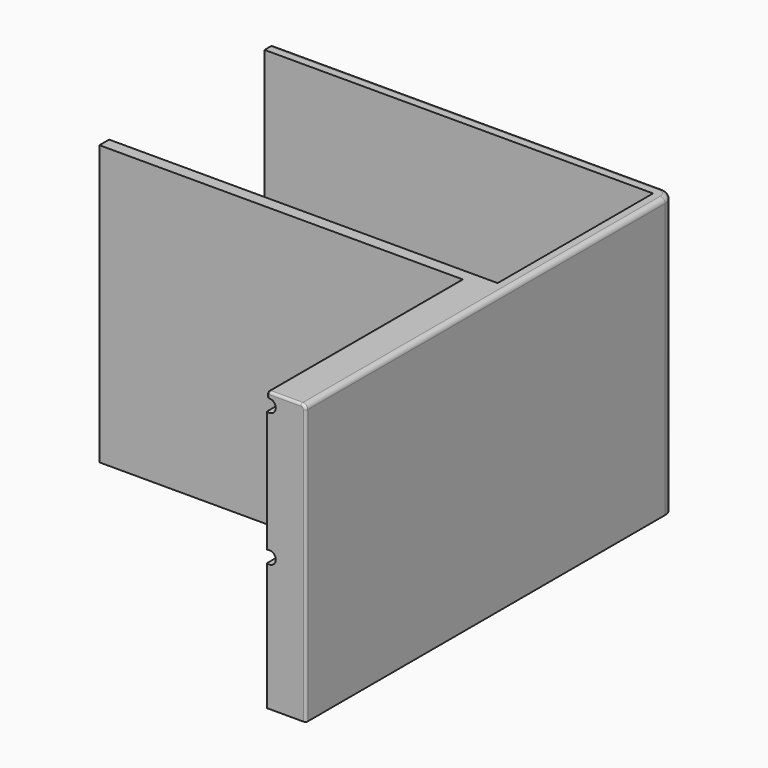
from build123d import *

# Parameters (mm, degrees)
SKETCH_W        = 330
SKETCH_H        = 90
PAD_DEPTH       = 260
SKETCH001_W     = 320
SKETCH001_H     = 80
POCKET_DEPTH    = 250
SKETCH002_W     = 16
SKETCH002_H     = 260
PAD001_DEPTH    = 100
SKETCH003_R     = 2.625
POCKET001_DEPTH = 105
FILLET_R        = 5
FILLET001_R     = 5
FILLET002_R     = 5
FILLET003_R     = 2
FILLET004_R     = 1
FILLET005_R     = 1
FILLET006_R     = 1
FILLET007_R     = 1
SKETCH004_W     = 298
SKETCH004_H     = 5
PAD002_DEPTH    = 100
FILLET008_R     = 1
SKETCH005_W     = 390
SKETCH005_H     = 230
POCKET002_DEPTH = 145
SKETCH006_W     = 165
SKETCH006_H     = 230
POCKET003_DEPTH = 300


with BuildPart() as part:
    # Sketch → Pad (new body)
    with BuildSketch(Plane.XY):
        with Locations((165, 45)):
            Rectangle(SKETCH_W, SKETCH_H)
    extrude(amount=PAD_DEPTH)

    # Sketch001 (on Face6 of Pad) → Pocket (cut)
    with BuildSketch(Plane.XY.offset(260)):
        with Locations((165, 45)):
            Rectangle(SKETCH001_W, SKETCH001_H)
    extrude(amount=-POCKET_DEPTH, mode=Mode.SUBTRACT)

    # Sketch002 (on Face1 of Pocket) → Pad001 (join)
    with BuildSketch(Plane.XZ):
        with Locations((8, 130)):
            Rectangle(SKETCH002_W, SKETCH002_H)
        with Locations((322, 130)):
            Rectangle(SKETCH002_W, SKETCH002_H)
    extrude(amount=PAD001_DEPTH)

    # Sketch003 (on Face18 of Pad001) → Pocket001 (cut)
    with BuildSketch(Plane.XZ.offset(100)):
        with Locations((15, 40)):
            Circle(SKETCH003_R)
        with Locations((315, 40)):
            Circle(SKETCH003_R)
        with Locations((15, 120)):
            Circle(SKETCH003_R)
        with Locations((315, 120)):
            Circle(SKETCH003_R)
        with Locations((15, 200)):
            Circle(SKETCH003_R)
        with Locations((315, 200)):
            Circle(SKETCH003_R)
        with Locations((15, 255)):
            Circle(SKETCH003_R)
        with Locations((315, 255)):
            Circle(SKETCH003_R)
    extrude(amount=-POCKET001_DEPTH, mode=Mode.SUBTRACT)

    # Fillet
    fillet_edges = [part.edges().sort_by_distance(p)[0] for p in [
        (0, 45, 0),
    ]]
    fillet(fillet_edges, radius=FILLET_R)

    # Fillet001
    fillet001_edges = [part.edges().sort_by_distance(p)[0] for p in [
        (330, 45, 0),
    ]]
    fillet(fillet001_edges, radius=FILLET001_R)

    # Fillet002
    fillet002_edges = [part.edges().sort_by_distance(p)[0] for p in [
        (165, 90, 0),
    ]]
    fillet(fillet002_edges, radius=FILLET002_R)

    # Fillet003
    fillet003_edges = [part.edges().sort_by_distance(p)[0] for p in [
        (0, -50, 260),
    ]]
    fillet(fillet003_edges, radius=FILLET003_R)

    # Fillet004
    fillet004_edges = [part.edges().sort_by_distance(p)[0] for p in [
        (9, -100, 260),
    ]]
    fillet(fillet004_edges, radius=FILLET004_R)

    # Fillet005
    fillet005_edges = [part.edges().sort_by_distance(p)[0] for p in [
        (16, -49.5, 260),
    ]]
    fillet(fillet005_edges, radius=FILLET005_R)

    # Fillet006
    fillet006_edges = [part.edges().sort_by_distance(p)[0] for p in [
        (321, -100, 260),
    ]]
    fillet(fillet006_edges, radius=FILLET006_R)

    # Fillet007
    fillet007_edges = [part.edges().sort_by_distance(p)[0] for p in [
        (314, -49.5, 260),
    ]]
    fillet(fillet007_edges, radius=FILLET007_R)

    # Sketch004 (on Face4 of Fillet007) → Pad002 (join)
    with BuildSketch(Plane.XZ):
        with Locations((165, 2.5)):
            Rectangle(SKETCH004_W, SKETCH004_H)
    extrude(amount=PAD002_DEPTH)

    # Fillet008
    fillet008_edges = [part.edges().sort_by_distance(p)[0] for p in [
        (165, -100, 0),
    ]]
    fillet(fillet008_edges, radius=FILLET008_R)

    # Sketch005 (on Face7 of Fillet008) → Pocket002 (cut)
    with BuildSketch(Plane(origin=(0, 0, 0), x_dir=(1, 0, 0), z_dir=(0, 0, -1))):
        with Locations((175, 0)):
            Rectangle(SKETCH005_W, SKETCH005_H)
    extrude(amount=-POCKET002_DEPTH, mode=Mode.SUBTRACT)

    # Sketch006 (on Face46 of Pocket002) → Pocket003 (cut)
    with BuildSketch(Plane.XY.offset(260)):
        with Locations((82.5, 0)):
            Rectangle(SKETCH006_W, SKETCH006_H)
    extrude(amount=-POCKET003_DEPTH, mode=Mode.SUBTRACT)


solid = part.part
